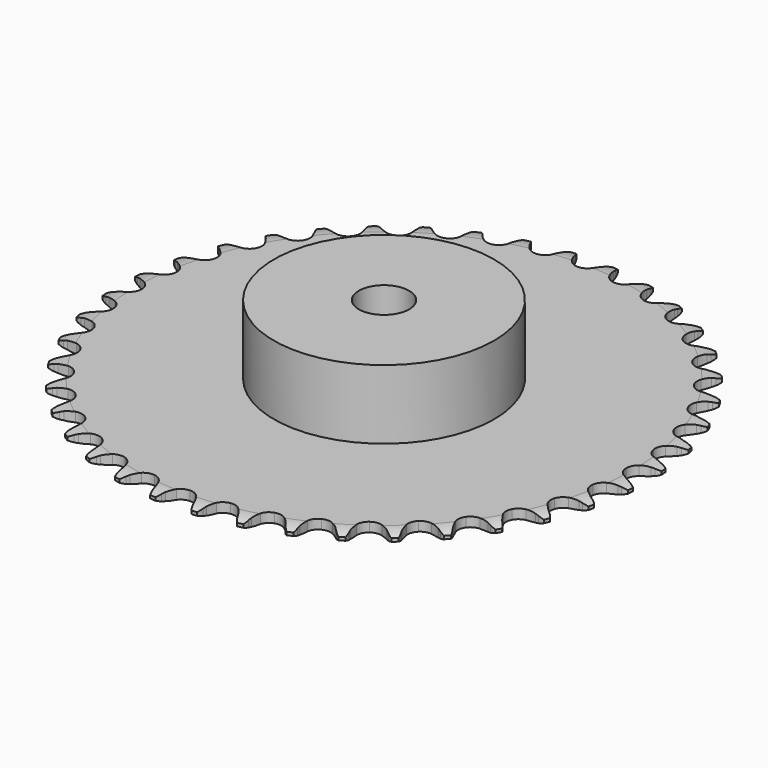
from build123d import *

# Parameters (mm, degrees)
PAD_DEPTH         = 3
SKETCH001_R       = 35
PAD001_DEPTH      = 25
SKETCH002_R       = 8
POCKET_DEPTH      = 0.001
POCKET_DEPTH_BACK = 25.001


with BuildPart() as part:
    # Sprocket → Pad (new body)
    with BuildSketch(Plane.XY):
        with BuildLine():
            ThreePointArc((-6.672936, 84.787696), (-5.635143, 83.612537), (-4.92136, 82.216641))
            Line((-4.92136, 82.216641), (-4.543533, 81.172906))
            ThreePointArc((-4.543533, 81.172906), (-3.945873, 79.833685), (-3.161147, 78.594767))
            ThreePointArc((-3.161147, 78.594767), (-1.770001, 77.422275), (0, 77.001417))
            ThreePointArc((0, 77.001417), (1.770001, 77.422275), (3.161147, 78.594767))
            ThreePointArc((3.161147, 78.594767), (3.945873, 79.833685), (4.543533, 81.172906))
            Line((4.543533, 81.172906), (4.92136, 82.216641))
            ThreePointArc((4.92136, 82.216641), (5.635143, 83.612537), (6.672936, 84.787696))
            ThreePointArc((6.672936, 84.787696), (7.514117, 83.464659), (8.000746, 81.974288))
            Line((8.000746, 81.974288), (8.210645, 80.884298))
            ThreePointArc((8.210645, 80.884298), (8.591447, 79.46807), (9.172702, 78.121647))
            ThreePointArc((9.172702, 78.121647), (10.363303, 76.745967), (12.045676, 76.053402))
            ThreePointArc((12.045676, 76.053402), (13.859721, 76.192189), (15.417158, 77.132622))
            Line((15.417158, 77.132622), (17.185835, 79.462768))
            ThreePointArc((17.185835, 79.462768), (17.440743, 79.956009), (17.722286, 80.434547))
            ThreePointArc((17.722286, 80.434547), (18.645648, 81.701597), (19.854499, 82.699942))
            ThreePointArc((19.854499, 82.699942), (20.478355, 81.261603), (20.725848, 79.713456))
            Line((20.725848, 79.713456), (20.76265, 78.60405))
            ThreePointArc((20.76265, 78.60405), (20.917217, 77.145688), (21.280689, 75.724913))
            ThreePointArc((21.280689, 75.724913), (22.241428, 74.179919), (23.794747, 73.2327))
            ThreePointArc((23.794747, 73.2327), (25.60817, 73.085999), (27.293548, 73.771217))
            Line((27.293548, 73.771217), (29.404965, 75.795992))
            ThreePointArc((29.404965, 75.795992), (29.733894, 76.243285), (30.086831, 76.671888))
            ThreePointArc((30.086831, 76.671888), (31.197035, 77.778893), (32.547179, 78.57584))
            ThreePointArc((32.547179, 78.57584), (32.938348, 77.057618), (32.94061, 75.489814))
            Line((32.94061, 75.489814), (32.80341, 74.38831))
            ThreePointArc((32.80341, 74.38831), (32.727936, 72.923723), (32.864675, 71.46358))
            ThreePointArc((32.864675, 71.46358), (33.571895, 69.787316), (34.957912, 68.608765))
            ThreePointArc((34.957912, 68.608765), (36.72606, 68.180188), (38.49788, 68.593319))
            Line((38.49788, 68.593319), (40.900046, 70.262868))
            ThreePointArc((40.900046, 70.262868), (41.294898, 70.653198), (41.710538, 71.021313))
            ThreePointArc((41.710538, 71.021313), (42.980247, 71.941015), (44.438438, 72.516941))
            ThreePointArc((44.438438, 72.516941), (44.587289, 70.956218), (44.344265, 69.407363))
            Line((44.344265, 69.407363), (44.036441, 68.340883))
            ThreePointArc((44.036441, 68.340883), (43.732784, 66.906133), (43.639423, 65.442577))
            ThreePointArc((43.639423, 65.442577), (44.075711, 63.676317), (45.260297, 62.295455))
            ThreePointArc((45.260297, 62.295455), (46.939632, 61.595556), (48.754266, 61.726426))
            Line((48.754266, 61.726426), (51.388033, 62.999639))
            ThreePointArc((51.388033, 62.999639), (51.839085, 63.323394), (52.307193, 63.621957))
            ThreePointArc((52.307193, 63.621957), (53.705143, 64.331709), (55.235476, 64.672433))
            ThreePointArc((55.235476, 64.672433), (55.138344, 63.10764), (54.656017, 61.615872))
            Line((54.656017, 61.615872), (54.185149, 60.610676))
            ThreePointArc((54.185149, 60.610676), (53.660787, 59.241093), (53.339624, 57.810161))
            ThreePointArc((53.339624, 57.810161), (53.494236, 55.997395), (54.448224, 54.448224))
            ThreePointArc((54.448224, 54.448224), (55.997395, 53.494236), (57.810161, 53.339624))
            Line((57.810161, 53.339624), (60.610676, 54.185149))
            ThreePointArc((60.610676, 54.185149), (61.106821, 54.434359), (61.615872, 54.656017))
            ThreePointArc((61.615872, 54.656017), (63.10764, 55.138344), (64.672433, 55.235476))
            ThreePointArc((64.672433, 55.235476), (64.331709, 53.705143), (63.621957, 52.307193))
            Line((63.621957, 52.307193), (62.999639, 51.388033))
            ThreePointArc((62.999639, 51.388033), (62.267482, 50.117341), (61.726426, 48.754266))
            ThreePointArc((61.726426, 48.754266), (61.595556, 46.939632), (62.295455, 45.260297))
            ThreePointArc((62.295455, 45.260297), (63.676317, 44.075711), (65.442577, 43.639423))
            Line((65.442577, 43.639423), (68.340883, 44.036441))
            ThreePointArc((68.340883, 44.036441), (68.869904, 44.204968), (69.407363, 44.344265))
            ThreePointArc((69.407363, 44.344265), (70.956218, 44.587289), (72.516941, 44.438438))
            ThreePointArc((72.516941, 44.438438), (71.941015, 42.980247), (71.021313, 41.710538))
            Line((71.021313, 41.710538), (70.262868, 40.900046))
            ThreePointArc((70.262868, 40.900046), (69.340945, 39.759533), (68.593319, 38.49788))
            ThreePointArc((68.593319, 38.49788), (68.180188, 36.72606), (68.608765, 34.957912))
            ThreePointArc((68.608765, 34.957912), (69.787316, 33.571895), (71.46358, 32.864675))
            Line((71.46358, 32.864675), (74.38831, 32.80341))
            ThreePointArc((74.38831, 32.80341), (74.937182, 32.887105), (75.489814, 32.94061))
            ThreePointArc((75.489814, 32.94061), (77.057618, 32.938348), (78.57584, 32.547179))
            ThreePointArc((78.57584, 32.547179), (77.778893, 31.197035), (76.671888, 30.086831))
            Line((76.671888, 30.086831), (75.795992, 29.404965))
            ThreePointArc((75.795992, 29.404965), (74.707004, 28.422713), (73.771217, 27.293548))
            ThreePointArc((73.771217, 27.293548), (73.085999, 25.60817), (73.2327, 23.794747))
            ThreePointArc((73.2327, 23.794747), (74.179919, 22.241428), (75.724913, 21.280689))
            Line((75.724913, 21.280689), (78.60405, 20.76265))
            ThreePointArc((78.60405, 20.76265), (79.159258, 20.759452), (79.713456, 20.725848))
            ThreePointArc((79.713456, 20.725848), (81.261603, 20.478355), (82.699942, 19.854499))
            ThreePointArc((82.699942, 19.854499), (81.701597, 18.645648), (80.434547, 17.722286))
            Line((80.434547, 17.722286), (79.462768, 17.185835))
            ThreePointArc((79.462768, 17.185835), (78.233529, 16.386032), (77.132622, 15.417158))
            ThreePointArc((77.132622, 15.417158), (76.192189, 13.859721), (76.053402, 12.045676))
            ThreePointArc((76.053402, 12.045676), (76.745967, 10.363303), (78.121647, 9.172702))
            Line((78.121647, 9.172702), (80.884298, 8.210645))
            ThreePointArc((80.884298, 8.210645), (81.43217, 8.120633), (81.974288, 8.000746))
            ThreePointArc((81.974288, 8.000746), (83.464659, 7.514117), (84.787696, 6.672936))
            ThreePointArc((84.787696, 6.672936), (83.612537, 5.635143), (82.216641, 4.92136))
            Line((82.216641, 4.92136), (81.172906, 4.543533))
            ThreePointArc((81.172906, 4.543533), (79.833685, 3.945873), (78.594767, 3.161147))
            ThreePointArc((78.594767, 3.161147), (77.422275, 1.770001), (77.001417, 0))
            ThreePointArc((77.001417, 0), (77.422275, -1.770001), (78.594767, -3.161147))
            Line((78.594767, -3.161147), (81.172906, -4.543533))
            ThreePointArc((81.172906, -4.543533), (81.699951, -4.718143), (82.216641, -4.92136))
            ThreePointArc((82.216641, -4.92136), (83.612537, -5.635143), (84.787696, -6.672936))
            ThreePointArc((84.787696, -6.672936), (83.464659, -7.514117), (81.974288, -8.000746))
            Line((81.974288, -8.000746), (80.884298, -8.210645))
            ThreePointArc((80.884298, -8.210645), (79.46807, -8.591447), (78.121647, -9.172702))
            ThreePointArc((78.121647, -9.172702), (76.745967, -10.363303), (76.053402, -12.045676))
            ThreePointArc((76.053402, -12.045676), (76.192189, -13.859721), (77.132622, -15.417158))
            Line((77.132622, -15.417158), (79.462768, -17.185835))
            ThreePointArc((79.462768, -17.185835), (79.956009, -17.440743), (80.434547, -17.722286))
            ThreePointArc((80.434547, -17.722286), (81.701597, -18.645648), (82.699942, -19.854499))
            ThreePointArc((82.699942, -19.854499), (81.261603, -20.478355), (79.713456, -20.725848))
            Line((79.713456, -20.725848), (78.60405, -20.76265))
            ThreePointArc((78.60405, -20.76265), (77.145688, -20.917217), (75.724913, -21.280689))
            ThreePointArc((75.724913, -21.280689), (74.179919, -22.241428), (73.2327, -23.794747))
            ThreePointArc((73.2327, -23.794747), (73.085999, -25.60817), (73.771217, -27.293548))
            Line((73.771217, -27.293548), (75.795992, -29.404965))
            ThreePointArc((75.795992, -29.404965), (76.243285, -29.733894), (76.671888, -30.086831))
            ThreePointArc((76.671888, -30.086831), (77.778893, -31.197035), (78.57584, -32.547179))
            ThreePointArc((78.57584, -32.547179), (77.057618, -32.938348), (75.489814, -32.94061))
            Line((75.489814, -32.94061), (74.38831, -32.80341))
            ThreePointArc((74.38831, -32.80341), (72.923723, -32.727936), (71.46358, -32.864675))
            ThreePointArc((71.46358, -32.864675), (69.787316, -33.571895), (68.608765, -34.957912))
            ThreePointArc((68.608765, -34.957912), (68.180188, -36.72606), (68.593319, -38.49788))
            Line((68.593319, -38.49788), (70.262868, -40.900046))
            ThreePointArc((70.262868, -40.900046), (70.653198, -41.294898), (71.021313, -41.710538))
            ThreePointArc((71.021313, -41.710538), (71.941015, -42.980247), (72.516941, -44.438438))
            ThreePointArc((72.516941, -44.438438), (70.956218, -44.587289), (69.407363, -44.344265))
            Line((69.407363, -44.344265), (68.340883, -44.036441))
            ThreePointArc((68.340883, -44.036441), (66.906133, -43.732784), (65.442577, -43.639423))
            ThreePointArc((65.442577, -43.639423), (63.676317, -44.075711), (62.295455, -45.260297))
            ThreePointArc((62.295455, -45.260297), (61.595556, -46.939632), (61.726426, -48.754266))
            Line((61.726426, -48.754266), (62.999639, -51.388033))
            ThreePointArc((62.999639, -51.388033), (63.323394, -51.839085), (63.621957, -52.307193))
            ThreePointArc((63.621957, -52.307193), (64.331709, -53.705143), (64.672433, -55.235476))
            ThreePointArc((64.672433, -55.235476), (63.10764, -55.138344), (61.615872, -54.656017))
            Line((61.615872, -54.656017), (60.610676, -54.185149))
            ThreePointArc((60.610676, -54.185149), (59.241093, -53.660787), (57.810161, -53.339624))
            ThreePointArc((57.810161, -53.339624), (55.997395, -53.494236), (54.448224, -54.448224))
            ThreePointArc((54.448224, -54.448224), (53.494236, -55.997395), (53.339624, -57.810161))
            Line((53.339624, -57.810161), (54.185149, -60.610676))
            ThreePointArc((54.185149, -60.610676), (54.434359, -61.106821), (54.656017, -61.615872))
            ThreePointArc((54.656017, -61.615872), (55.138344, -63.10764), (55.235476, -64.672433))
            ThreePointArc((55.235476, -64.672433), (53.705143, -64.331709), (52.307193, -63.621957))
            Line((52.307193, -63.621957), (51.388033, -62.999639))
            ThreePointArc((51.388033, -62.999639), (50.117341, -62.267482), (48.754266, -61.726426))
            ThreePointArc((48.754266, -61.726426), (46.939632, -61.595556), (45.260297, -62.295455))
            ThreePointArc((45.260297, -62.295455), (44.075711, -63.676317), (43.639423, -65.442577))
            Line((43.639423, -65.442577), (44.036441, -68.340883))
            ThreePointArc((44.036441, -68.340883), (44.204968, -68.869904), (44.344265, -69.407363))
            ThreePointArc((44.344265, -69.407363), (44.587289, -70.956218), (44.438438, -72.516941))
            ThreePointArc((44.438438, -72.516941), (42.980247, -71.941015), (41.710538, -71.021313))
            Line((41.710538, -71.021313), (40.900046, -70.262868))
            ThreePointArc((40.900046, -70.262868), (39.759533, -69.340945), (38.49788, -68.593319))
            ThreePointArc((38.49788, -68.593319), (36.72606, -68.180188), (34.957912, -68.608765))
            ThreePointArc((34.957912, -68.608765), (33.571895, -69.787316), (32.864675, -71.46358))
            Line((32.864675, -71.46358), (32.80341, -74.38831))
            ThreePointArc((32.80341, -74.38831), (32.887105, -74.937182), (32.94061, -75.489814))
            ThreePointArc((32.94061, -75.489814), (32.938348, -77.057618), (32.547179, -78.57584))
            ThreePointArc((32.547179, -78.57584), (31.197035, -77.778893), (30.086831, -76.671888))
            Line((30.086831, -76.671888), (29.404965, -75.795992))
            ThreePointArc((29.404965, -75.795992), (28.422713, -74.707004), (27.293548, -73.771217))
            ThreePointArc((27.293548, -73.771217), (25.60817, -73.085999), (23.794747, -73.2327))
            ThreePointArc((23.794747, -73.2327), (22.241428, -74.179919), (21.280689, -75.724913))
            Line((21.280689, -75.724913), (20.76265, -78.60405))
            ThreePointArc((20.76265, -78.60405), (20.759452, -79.159258), (20.725848, -79.713456))
            ThreePointArc((20.725848, -79.713456), (20.478355, -81.261603), (19.854499, -82.699942))
            ThreePointArc((19.854499, -82.699942), (18.645648, -81.701597), (17.722286, -80.434547))
            Line((17.722286, -80.434547), (17.185835, -79.462768))
            ThreePointArc((17.185835, -79.462768), (16.386032, -78.233529), (15.417158, -77.132622))
            ThreePointArc((15.417158, -77.132622), (13.859721, -76.192189), (12.045676, -76.053402))
            ThreePointArc((12.045676, -76.053402), (10.363303, -76.745967), (9.172702, -78.121647))
            Line((9.172702, -78.121647), (8.210645, -80.884298))
            ThreePointArc((8.210645, -80.884298), (8.120633, -81.43217), (8.000746, -81.974288))
            ThreePointArc((8.000746, -81.974288), (7.514117, -83.464659), (6.672936, -84.787696))
            ThreePointArc((6.672936, -84.787696), (5.635143, -83.612537), (4.92136, -82.216641))
            Line((4.92136, -82.216641), (4.543533, -81.172906))
            ThreePointArc((4.543533, -81.172906), (3.945873, -79.833685), (3.161147, -78.594767))
            ThreePointArc((3.161147, -78.594767), (1.770001, -77.422275), (0, -77.001417))
            ThreePointArc((0, -77.001417), (-1.770001, -77.422275), (-3.161147, -78.594767))
            Line((-3.161147, -78.594767), (-4.543533, -81.172906))
            ThreePointArc((-4.543533, -81.172906), (-4.718143, -81.699951), (-4.92136, -82.216641))
            ThreePointArc((-4.92136, -82.216641), (-5.635143, -83.612537), (-6.672936, -84.787696))
            ThreePointArc((-6.672936, -84.787696), (-7.514117, -83.464659), (-8.000746, -81.974288))
            Line((-8.000746, -81.974288), (-8.210645, -80.884298))
            ThreePointArc((-8.210645, -80.884298), (-8.591447, -79.46807), (-9.172702, -78.121647))
            ThreePointArc((-9.172702, -78.121647), (-10.363303, -76.745967), (-12.045676, -76.053402))
            ThreePointArc((-12.045676, -76.053402), (-13.859721, -76.192189), (-15.417158, -77.132622))
            Line((-15.417158, -77.132622), (-17.185835, -79.462768))
            ThreePointArc((-17.185835, -79.462768), (-17.440743, -79.956009), (-17.722286, -80.434547))
            ThreePointArc((-17.722286, -80.434547), (-18.645648, -81.701597), (-19.854499, -82.699942))
            ThreePointArc((-19.854499, -82.699942), (-20.478355, -81.261603), (-20.725848, -79.713456))
            Line((-20.725848, -79.713456), (-20.76265, -78.60405))
            ThreePointArc((-20.76265, -78.60405), (-20.917217, -77.145688), (-21.280689, -75.724913))
            ThreePointArc((-21.280689, -75.724913), (-22.241428, -74.179919), (-23.794747, -73.2327))
            ThreePointArc((-23.794747, -73.2327), (-25.60817, -73.085999), (-27.293548, -73.771217))
            Line((-27.293548, -73.771217), (-29.404965, -75.795992))
            ThreePointArc((-29.404965, -75.795992), (-29.733894, -76.243285), (-30.086831, -76.671888))
            ThreePointArc((-30.086831, -76.671888), (-31.197035, -77.778893), (-32.547179, -78.57584))
            ThreePointArc((-32.547179, -78.57584), (-32.938348, -77.057618), (-32.94061, -75.489814))
            Line((-32.94061, -75.489814), (-32.80341, -74.38831))
            ThreePointArc((-32.80341, -74.38831), (-32.727936, -72.923723), (-32.864675, -71.46358))
            ThreePointArc((-32.864675, -71.46358), (-33.571895, -69.787316), (-34.957912, -68.608765))
            ThreePointArc((-34.957912, -68.608765), (-36.72606, -68.180188), (-38.49788, -68.593319))
            Line((-38.49788, -68.593319), (-40.900046, -70.262868))
            ThreePointArc((-40.900046, -70.262868), (-41.294898, -70.653198), (-41.710538, -71.021313))
            ThreePointArc((-41.710538, -71.021313), (-42.980247, -71.941015), (-44.438438, -72.516941))
            ThreePointArc((-44.438438, -72.516941), (-44.587289, -70.956218), (-44.344265, -69.407363))
            Line((-44.344265, -69.407363), (-44.036441, -68.340883))
            ThreePointArc((-44.036441, -68.340883), (-43.732784, -66.906133), (-43.639423, -65.442577))
            ThreePointArc((-43.639423, -65.442577), (-44.075711, -63.676317), (-45.260297, -62.295455))
            ThreePointArc((-45.260297, -62.295455), (-46.939632, -61.595556), (-48.754266, -61.726426))
            Line((-48.754266, -61.726426), (-51.388033, -62.999639))
            ThreePointArc((-51.388033, -62.999639), (-51.839085, -63.323394), (-52.307193, -63.621957))
            ThreePointArc((-52.307193, -63.621957), (-53.705143, -64.331709), (-55.235476, -64.672433))
            ThreePointArc((-55.235476, -64.672433), (-55.138344, -63.10764), (-54.656017, -61.615872))
            Line((-54.656017, -61.615872), (-54.185149, -60.610676))
            ThreePointArc((-54.185149, -60.610676), (-53.660787, -59.241093), (-53.339624, -57.810161))
            ThreePointArc((-53.339624, -57.810161), (-53.494236, -55.997395), (-54.448224, -54.448224))
            ThreePointArc((-54.448224, -54.448224), (-55.997395, -53.494236), (-57.810161, -53.339624))
            Line((-57.810161, -53.339624), (-60.610676, -54.185149))
            ThreePointArc((-60.610676, -54.185149), (-61.106821, -54.434359), (-61.615872, -54.656017))
            ThreePointArc((-61.615872, -54.656017), (-63.10764, -55.138344), (-64.672433, -55.235476))
            ThreePointArc((-64.672433, -55.235476), (-64.331709, -53.705143), (-63.621957, -52.307193))
            Line((-63.621957, -52.307193), (-62.999639, -51.388033))
            ThreePointArc((-62.999639, -51.388033), (-62.267482, -50.117341), (-61.726426, -48.754266))
            ThreePointArc((-61.726426, -48.754266), (-61.595556, -46.939632), (-62.295455, -45.260297))
            ThreePointArc((-62.295455, -45.260297), (-63.676317, -44.075711), (-65.442577, -43.639423))
            Line((-65.442577, -43.639423), (-68.340883, -44.036441))
            ThreePointArc((-68.340883, -44.036441), (-68.869904, -44.204968), (-69.407363, -44.344265))
            ThreePointArc((-69.407363, -44.344265), (-70.956218, -44.587289), (-72.516941, -44.438438))
            ThreePointArc((-72.516941, -44.438438), (-71.941015, -42.980247), (-71.021313, -41.710538))
            Line((-71.021313, -41.710538), (-70.262868, -40.900046))
            ThreePointArc((-70.262868, -40.900046), (-69.340945, -39.759533), (-68.593319, -38.49788))
            ThreePointArc((-68.593319, -38.49788), (-68.180188, -36.72606), (-68.608765, -34.957912))
            ThreePointArc((-68.608765, -34.957912), (-69.787316, -33.571895), (-71.46358, -32.864675))
            Line((-71.46358, -32.864675), (-74.38831, -32.80341))
            ThreePointArc((-74.38831, -32.80341), (-74.937182, -32.887105), (-75.489814, -32.94061))
            ThreePointArc((-75.489814, -32.94061), (-77.057618, -32.938348), (-78.57584, -32.547179))
            ThreePointArc((-78.57584, -32.547179), (-77.778893, -31.197035), (-76.671888, -30.086831))
            Line((-76.671888, -30.086831), (-75.795992, -29.404965))
            ThreePointArc((-75.795992, -29.404965), (-74.707004, -28.422713), (-73.771217, -27.293548))
            ThreePointArc((-73.771217, -27.293548), (-73.085999, -25.60817), (-73.2327, -23.794747))
            ThreePointArc((-73.2327, -23.794747), (-74.179919, -22.241428), (-75.724913, -21.280689))
            Line((-75.724913, -21.280689), (-78.60405, -20.76265))
            ThreePointArc((-78.60405, -20.76265), (-79.159258, -20.759452), (-79.713456, -20.725848))
            ThreePointArc((-79.713456, -20.725848), (-81.261603, -20.478355), (-82.699942, -19.854499))
            ThreePointArc((-82.699942, -19.854499), (-81.701597, -18.645648), (-80.434547, -17.722286))
            Line((-80.434547, -17.722286), (-79.462768, -17.185835))
            ThreePointArc((-79.462768, -17.185835), (-78.233529, -16.386032), (-77.132622, -15.417158))
            ThreePointArc((-77.132622, -15.417158), (-76.192189, -13.859721), (-76.053402, -12.045676))
            ThreePointArc((-76.053402, -12.045676), (-76.745967, -10.363303), (-78.121647, -9.172702))
            Line((-78.121647, -9.172702), (-80.884298, -8.210645))
            ThreePointArc((-80.884298, -8.210645), (-81.43217, -8.120633), (-81.974288, -8.000746))
            ThreePointArc((-81.974288, -8.000746), (-83.464659, -7.514117), (-84.787696, -6.672936))
            ThreePointArc((-84.787696, -6.672936), (-83.612537, -5.635143), (-82.216641, -4.92136))
            Line((-82.216641, -4.92136), (-81.172906, -4.543533))
            ThreePointArc((-81.172906, -4.543533), (-79.833685, -3.945873), (-78.594767, -3.161147))
            ThreePointArc((-78.594767, -3.161147), (-77.422275, -1.770001), (-77.001417, 0))
            ThreePointArc((-77.001417, 0), (-77.422275, 1.770001), (-78.594767, 3.161147))
            Line((-78.594767, 3.161147), (-81.172906, 4.543533))
            ThreePointArc((-81.172906, 4.543533), (-81.699951, 4.718143), (-82.216641, 4.92136))
            ThreePointArc((-82.216641, 4.92136), (-83.612537, 5.635143), (-84.787696, 6.672936))
            ThreePointArc((-84.787696, 6.672936), (-83.464659, 7.514117), (-81.974288, 8.000746))
            Line((-81.974288, 8.000746), (-80.884298, 8.210645))
            ThreePointArc((-80.884298, 8.210645), (-79.46807, 8.591447), (-78.121647, 9.172702))
            ThreePointArc((-78.121647, 9.172702), (-76.745967, 10.363303), (-76.053402, 12.045676))
            ThreePointArc((-76.053402, 12.045676), (-76.192189, 13.859721), (-77.132622, 15.417158))
            Line((-77.132622, 15.417158), (-79.462768, 17.185835))
            ThreePointArc((-79.462768, 17.185835), (-79.956009, 17.440743), (-80.434547, 17.722286))
            ThreePointArc((-80.434547, 17.722286), (-81.701597, 18.645648), (-82.699942, 19.854499))
            ThreePointArc((-82.699942, 19.854499), (-81.261603, 20.478355), (-79.713456, 20.725848))
            Line((-79.713456, 20.725848), (-78.60405, 20.76265))
            ThreePointArc((-78.60405, 20.76265), (-77.145688, 20.917217), (-75.724913, 21.280689))
            ThreePointArc((-75.724913, 21.280689), (-74.179919, 22.241428), (-73.2327, 23.794747))
            ThreePointArc((-73.2327, 23.794747), (-73.085999, 25.60817), (-73.771217, 27.293548))
            Line((-73.771217, 27.293548), (-75.795992, 29.404965))
            ThreePointArc((-75.795992, 29.404965), (-76.243285, 29.733894), (-76.671888, 30.086831))
            ThreePointArc((-76.671888, 30.086831), (-77.778893, 31.197035), (-78.57584, 32.547179))
            ThreePointArc((-78.57584, 32.547179), (-77.057618, 32.938348), (-75.489814, 32.94061))
            Line((-75.489814, 32.94061), (-74.38831, 32.80341))
            ThreePointArc((-74.38831, 32.80341), (-72.923723, 32.727936), (-71.46358, 32.864675))
            ThreePointArc((-71.46358, 32.864675), (-69.787316, 33.571895), (-68.608765, 34.957912))
            ThreePointArc((-68.608765, 34.957912), (-68.180188, 36.72606), (-68.593319, 38.49788))
            Line((-68.593319, 38.49788), (-70.262868, 40.900046))
            ThreePointArc((-70.262868, 40.900046), (-70.653198, 41.294898), (-71.021313, 41.710538))
            ThreePointArc((-71.021313, 41.710538), (-71.941015, 42.980247), (-72.516941, 44.438438))
            ThreePointArc((-72.516941, 44.438438), (-70.956218, 44.587289), (-69.407363, 44.344265))
            Line((-69.407363, 44.344265), (-68.340883, 44.036441))
            ThreePointArc((-68.340883, 44.036441), (-66.906133, 43.732784), (-65.442577, 43.639423))
            ThreePointArc((-65.442577, 43.639423), (-63.676317, 44.075711), (-62.295455, 45.260297))
            ThreePointArc((-62.295455, 45.260297), (-61.595556, 46.939632), (-61.726426, 48.754266))
            Line((-61.726426, 48.754266), (-62.999639, 51.388033))
            ThreePointArc((-62.999639, 51.388033), (-63.323394, 51.839085), (-63.621957, 52.307193))
            ThreePointArc((-63.621957, 52.307193), (-64.331709, 53.705143), (-64.672433, 55.235476))
            ThreePointArc((-64.672433, 55.235476), (-63.10764, 55.138344), (-61.615872, 54.656017))
            Line((-61.615872, 54.656017), (-60.610676, 54.185149))
            ThreePointArc((-60.610676, 54.185149), (-59.241093, 53.660787), (-57.810161, 53.339624))
            ThreePointArc((-57.810161, 53.339624), (-55.997395, 53.494236), (-54.448224, 54.448224))
            ThreePointArc((-54.448224, 54.448224), (-53.494236, 55.997395), (-53.339624, 57.810161))
            Line((-53.339624, 57.810161), (-54.185149, 60.610676))
            ThreePointArc((-54.185149, 60.610676), (-54.434359, 61.106821), (-54.656017, 61.615872))
            ThreePointArc((-54.656017, 61.615872), (-55.138344, 63.10764), (-55.235476, 64.672433))
            ThreePointArc((-55.235476, 64.672433), (-53.705143, 64.331709), (-52.307193, 63.621957))
            Line((-52.307193, 63.621957), (-51.388033, 62.999639))
            ThreePointArc((-51.388033, 62.999639), (-50.117341, 62.267482), (-48.754266, 61.726426))
            ThreePointArc((-48.754266, 61.726426), (-46.939632, 61.595556), (-45.260297, 62.295455))
            ThreePointArc((-45.260297, 62.295455), (-44.075711, 63.676317), (-43.639423, 65.442577))
            Line((-43.639423, 65.442577), (-44.036441, 68.340883))
            ThreePointArc((-44.036441, 68.340883), (-44.204968, 68.869904), (-44.344265, 69.407363))
            ThreePointArc((-44.344265, 69.407363), (-44.587289, 70.956218), (-44.438438, 72.516941))
            ThreePointArc((-44.438438, 72.516941), (-42.980247, 71.941015), (-41.710538, 71.021313))
            Line((-41.710538, 71.021313), (-40.900046, 70.262868))
            ThreePointArc((-40.900046, 70.262868), (-39.759533, 69.340945), (-38.49788, 68.593319))
            ThreePointArc((-38.49788, 68.593319), (-36.72606, 68.180188), (-34.957912, 68.608765))
            ThreePointArc((-34.957912, 68.608765), (-33.571895, 69.787316), (-32.864675, 71.46358))
            Line((-32.864675, 71.46358), (-32.80341, 74.38831))
            ThreePointArc((-32.80341, 74.38831), (-32.887105, 74.937182), (-32.94061, 75.489814))
            ThreePointArc((-32.94061, 75.489814), (-32.938348, 77.057618), (-32.547179, 78.57584))
            ThreePointArc((-32.547179, 78.57584), (-31.197035, 77.778893), (-30.086831, 76.671888))
            Line((-30.086831, 76.671888), (-29.404965, 75.795992))
            ThreePointArc((-29.404965, 75.795992), (-28.422713, 74.707004), (-27.293548, 73.771217))
            ThreePointArc((-27.293548, 73.771217), (-25.60817, 73.085999), (-23.794747, 73.2327))
            ThreePointArc((-23.794747, 73.2327), (-22.241428, 74.179919), (-21.280689, 75.724913))
            Line((-21.280689, 75.724913), (-20.76265, 78.60405))
            ThreePointArc((-20.76265, 78.60405), (-20.759452, 79.159258), (-20.725848, 79.713456))
            ThreePointArc((-20.725848, 79.713456), (-20.478355, 81.261603), (-19.854499, 82.699942))
            ThreePointArc((-19.854499, 82.699942), (-18.645648, 81.701597), (-17.722286, 80.434547))
            Line((-17.722286, 80.434547), (-17.185835, 79.462768))
            ThreePointArc((-17.185835, 79.462768), (-16.386032, 78.233529), (-15.417158, 77.132622))
            ThreePointArc((-15.417158, 77.132622), (-13.859721, 76.192189), (-12.045676, 76.053402))
            ThreePointArc((-12.045676, 76.053402), (-10.363303, 76.745967), (-9.172702, 78.121647))
            Line((-9.172702, 78.121647), (-8.210645, 80.884298))
            ThreePointArc((-8.210645, 80.884298), (-8.120633, 81.43217), (-8.000746, 81.974288))
            ThreePointArc((-8.000746, 81.974288), (-7.514117, 83.464659), (-6.672936, 84.787696))
        make_face()
    extrude(amount=PAD_DEPTH)

    # Sketch → Groove (revolve, cut)
    with BuildSketch(Plane.XZ):
        with BuildLine():
            Line((78.9, 0), (83.9, 0))
            Line((88.9, 0), (83.9, 0))
            Line((88.9, 3), (88.9, 0))
            Line((83.9, 3), (88.9, 3))
            Line((78.9, 3), (83.9, 3))
            ThreePointArc((83.9, 2), (81.44951, 2.747549), (78.9, 3))
            Line((83.9, 1), (83.9, 2))
            ThreePointArc((78.9, 0), (81.44951, 0.252451), (83.9, 1))
        make_face()
    revolve(axis=Axis((0, 0, 0), (0, 0, 1)), mode=Mode.SUBTRACT)

    # Sketch001 → Pad001 (join)
    with BuildSketch(Plane.XY):
        Circle(SKETCH001_R)
    extrude(amount=PAD001_DEPTH)

    # Sketch002 → Pocket (cut, two sides)
    with BuildSketch(Plane.XY) as pocket_sk:
        Circle(SKETCH002_R)
    extrude(amount=-POCKET_DEPTH, mode=Mode.SUBTRACT)
    extrude(pocket_sk.sketch, amount=POCKET_DEPTH_BACK, mode=Mode.SUBTRACT)


solid = part.part
